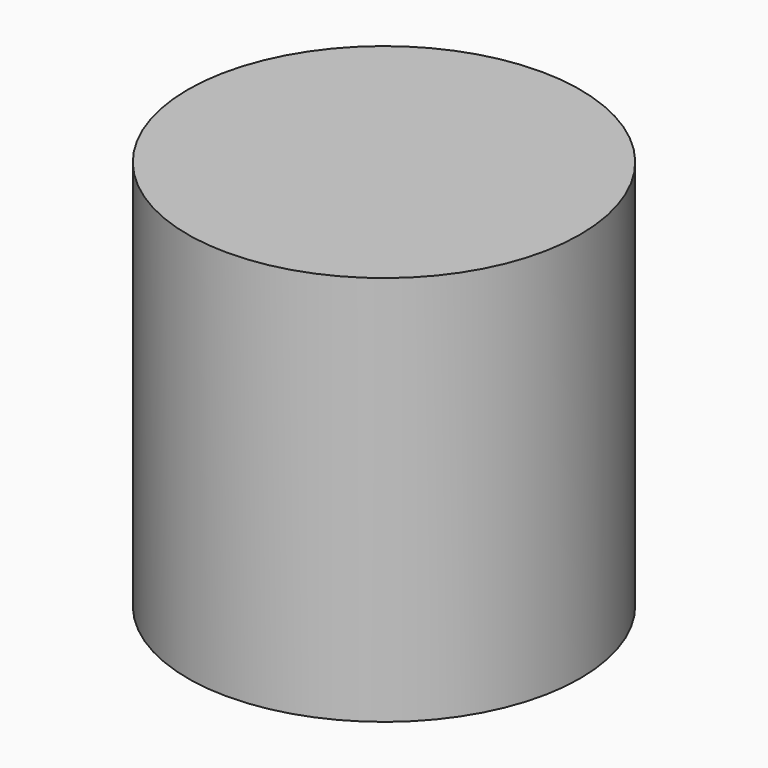
from build123d import *

# Parameters (mm, degrees)
F0_R     = 76.139755
F1_DEPTH = 151.638
F2_R     = 67.495024
F3_DEPTH = 149.098
F4_R     = 68.23758
F4_R_2   = 59.894351
F5_DEPTH = 25.4
F6_R     = 60.764982
F7_DEPTH = 145.542


with BuildPart() as f1:
    # F0 (on Top) → F1 (new body)
    with BuildSketch(Plane.XY):
        Circle(F0_R)
    extrude(amount=F1_DEPTH)

    # F2 (on Top) → F3 (join)
    with BuildSketch(Plane.XY):
        Circle(F2_R)
    extrude(amount=F3_DEPTH)

    # F4 (on Top) → F5 (cut)
    with BuildSketch(Plane.XY):
        Circle(F4_R)
        Circle(F4_R_2, mode=Mode.SUBTRACT)
    extrude(amount=-F5_DEPTH, mode=Mode.SUBTRACT)

    # F6 (on Top) → F7 (cut)
    with BuildSketch(Plane.XY):
        Circle(F6_R)
    extrude(amount=F7_DEPTH, mode=Mode.SUBTRACT)


solid = f1.part
